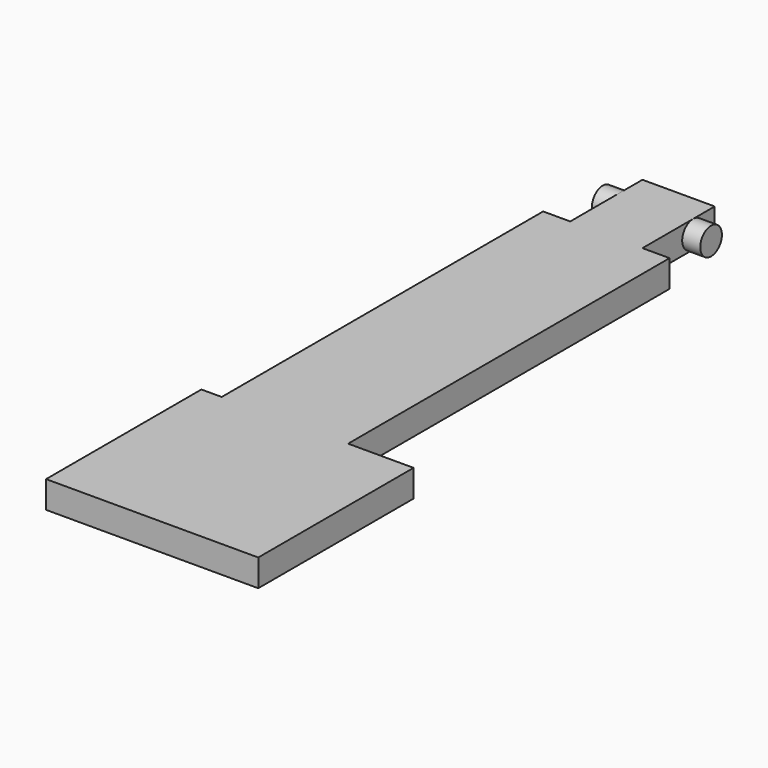
from build123d import *

# Parameters (mm, degrees)
PAD_DEPTH    = 3
SKETCH001_R  = 1.5
PAD001_DEPTH = 6


with BuildPart() as part:
    # Sketch → Pad (new body)
    with BuildSketch(Plane.XY):
        Polygon((-9.25, -33), (14.25, -33), (14.25, -11.5), (7, -11.5), (7, 33), (4, 33), (4, 43), (-4, 43), (-4, 33), (-7, 33), (-7, -11.5), (-9.25, -11.5), align=None)
    extrude(amount=PAD_DEPTH)

    # Sketch001 → Pad001 (join, symmetric)
    with BuildSketch(Plane.YZ):
        with Locations((40, 1.5)):
            Circle(SKETCH001_R)
    extrude(amount=PAD001_DEPTH, both=True)


solid = part.part
